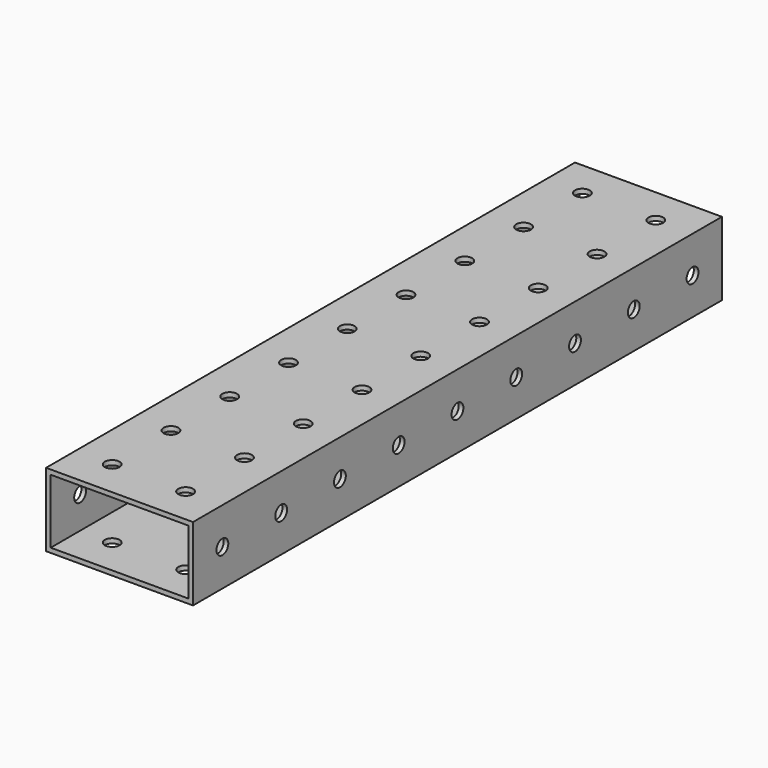
from build123d import *

# Parameters (mm, degrees)
F0_W     = 50.8
F0_H     = 228.6
F1_DEPTH = 25.4
F2_W     = 47.5996
F2_H     = 22.1996
F3_DEPTH = 228.601
F5_D     = 5.1054
F7_D     = 5.1054


with BuildPart() as f1:
    # F0 (on Top) → F1 (new body)
    with BuildSketch(Plane.XY):
        with Locations((-77.71441, 39.378307)):
            Rectangle(F0_W, F0_H)
    extrude(amount=F1_DEPTH)

    # F2 (on face) → F3 (cut, through all)
    with BuildSketch(Plane(origin=(0, 153.678307, 0), x_dir=(-1, 0, 0), z_dir=(0, 1, 0))):
        with Locations((77.71441, 12.7)):
            Rectangle(F2_W, F2_H)
    extrude(amount=-F3_DEPTH, mode=Mode.SUBTRACT)

    # F5 (through all)
    with Locations(Plane.XY.offset(25.4)):
        with Locations((-65.01441, 39.378307), (-65.01441, -36.821693), (-65.01441, 13.978307), (-65.01441, 115.578307), (-65.01441, 90.178307), (-65.01441, 140.978307), (-65.01441, 64.778307), (-90.41441, 140.978307), (-90.41441, 115.578307), (-90.41441, 90.178307), (-90.41441, 64.778307), (-90.41441, 39.378307), (-90.41441, 13.978307), (-90.41441, -11.421693), (-90.41441, -36.821693), (-65.01441, -62.221693), (-90.41441, -62.221693), (-65.01441, -11.421693)):
            Hole(F5_D / 2)

    # F7 (through all)
    with Locations(Plane(origin=(-103.11441, 0, 0), x_dir=(0, -1, 0), z_dir=(-1, 0, 0))):
        with Locations((-140.978307, 12.7), (-90.178307, 12.7), (-115.578307, 12.7), (-39.378307, 12.7), (-64.778307, 12.7), (11.421693, 12.7), (-13.978307, 12.7), (62.221693, 12.7), (36.821693, 12.7)):
            Hole(F7_D / 2)


solid = f1.part
